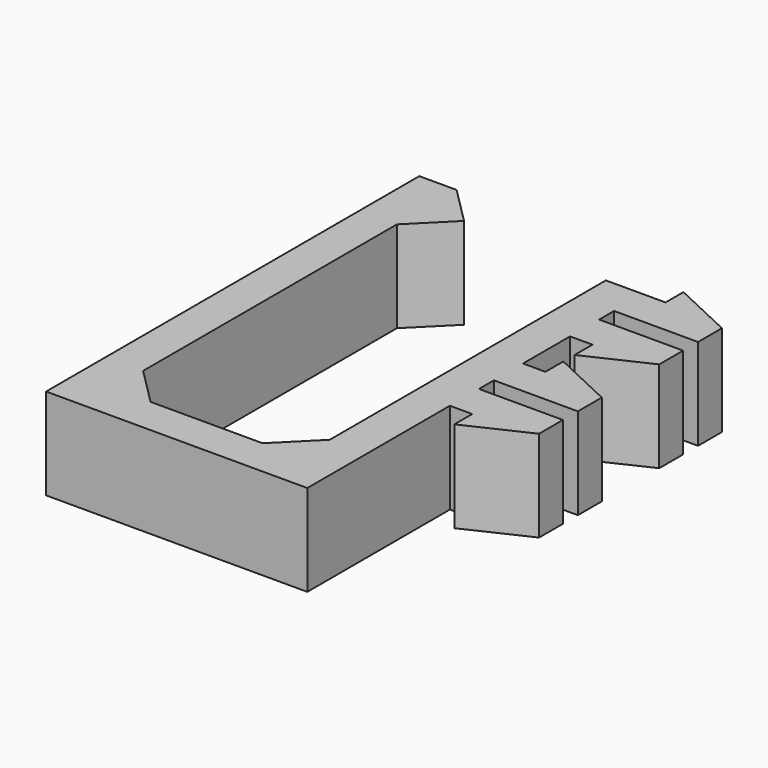
from build123d import *

# Parameters (mm, degrees)
F1_DEPTH = 4.9
F2_SIZE  = 2
F3_SIZE  = 2


with BuildPart() as f1:
    # F0 (on Top) → F1 (new body)
    with BuildSketch(Plane.XY):
        Polygon((0, 0), (0, 9.55), (1.2, 9.55), (1.2, 8.35), (4.5, 9.9), (4.5, 11.5), (0, 11.5), (0, 12.5), (4.5, 12.5), (4.5, 14.1), (1.2, 15.65), (1.2, 14.45), (0, 14.45), (0, 17.6), (1.2, 17.6), (1.2, 16.4), (4.5, 17.95), (4.5, 19.55), (0, 19.55), (0, 20.55), (4.5, 20.55), (4.5, 22.15), (1.2, 23.7), (1.2, 22.5), (0, 22.5), (-2, 22.5), (-2, 2), (-12, 2), (-12, 21), (-10, 23), (-12, 25), (-14, 25), (-14, 0), align=None)
    extrude(amount=F1_DEPTH)

    # F2
    f2_edges = [f1.edges().sort_by_distance(p)[0] for p in [
        (-2, 2, 2.45),
    ]]
    chamfer(f2_edges, length=F2_SIZE)

    # F3
    f3_edges = [f1.edges().sort_by_distance(p)[0] for p in [
        (-12, 2, 2.45),
    ]]
    chamfer(f3_edges, length=F3_SIZE)


solid = f1.part
